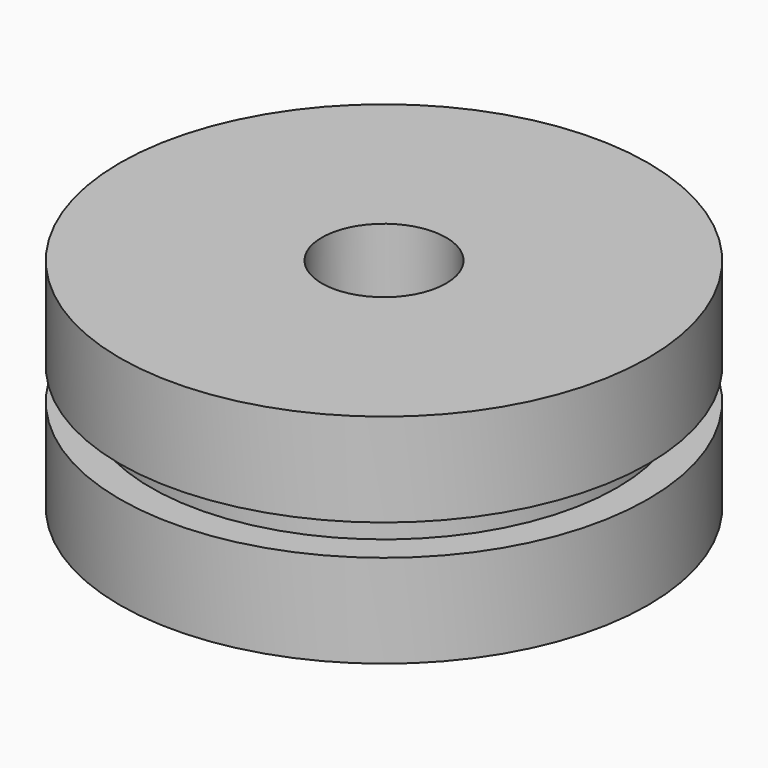
from build123d import *

# Parameters (mm, degrees)
F0_R     = 10.795
F1_DEPTH = 8.89
F3_R     = 10.795
F3_R_2   = 9.525
F4_DEPTH = 0.635
F5_R     = 2.54
F6_DEPTH = 8.891
F8_DEPTH = 0.635


with BuildPart() as f1:
    # F0 (on Top) → F1 (new body)
    with BuildSketch(Plane.XY):
        Circle(F0_R)
    extrude(amount=F1_DEPTH)

    # F3 (on offset) → F4 (cut, symmetric)
    with BuildSketch(Plane.XY.offset(4.445)):
        Circle(F3_R)
        Circle(F3_R_2, mode=Mode.SUBTRACT)
    extrude(amount=F4_DEPTH, both=True, mode=Mode.SUBTRACT)

    # F5 (on face) → F6 (cut, through all)
    with BuildSketch(Plane.XY.offset(8.89)):
        Circle(F5_R)
    extrude(amount=-F6_DEPTH, mode=Mode.SUBTRACT)

    # F7 (on offset) → F8 (cut, symmetric)
    with BuildSketch(Plane.XY.offset(4.445)):
        Polygon((0.9525, 3.81), (-0.9525, 3.81), (-0.9525, 0.9525), (-3.81, 0.9525), (-3.81, -0.9525), (-0.9525, -0.9525), (-0.9525, -3.81), (0.9525, -3.81), (0.9525, -0.9525), (3.81, -0.9525), (3.81, 0.9525), (0.9525, 0.9525), align=None)
    extrude(amount=F8_DEPTH, both=True, mode=Mode.SUBTRACT)


solid = f1.part
